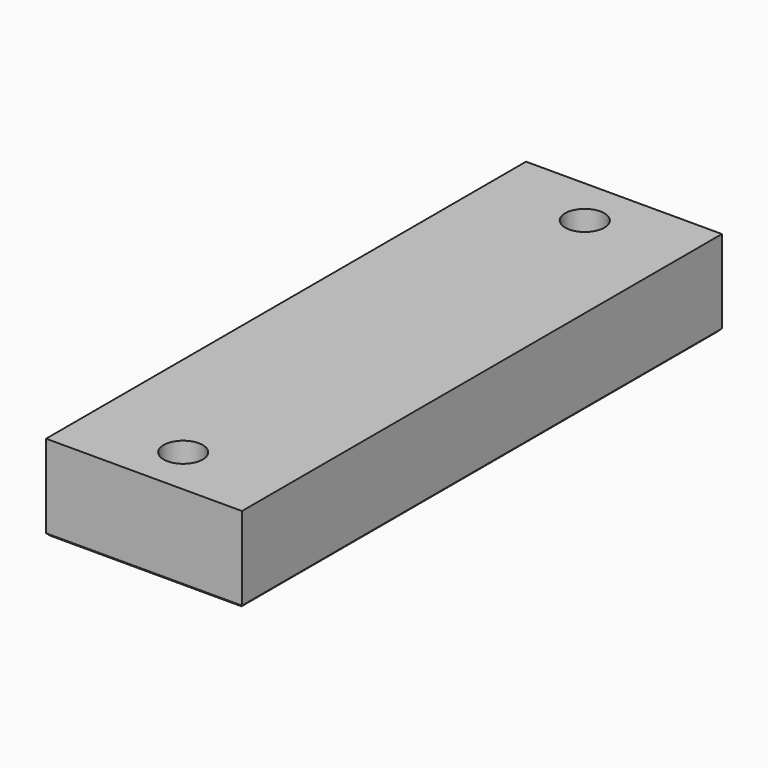
from build123d import *

# Parameters (mm, degrees)
F0_W    = 16
F0_H    = 49
F0_R    = 1.6
F3_SIZE = 0.2


with BuildPart() as f2:
    # F2: sweep along a path in F1
    with BuildLine(Plane.XZ) as f2_path:
        Line((0, 0), (0, 7))
    # F0 (on Top) → F2 (sweep)
    with BuildSketch(Plane.XY):
        Rectangle(F0_W, F0_H)
        with Locations((0, -20.5)):
            Circle(F0_R, mode=Mode.SUBTRACT)
        with Locations((0, 20.5)):
            Circle(F0_R, mode=Mode.SUBTRACT)
    sweep(path=f2_path.line)

    # F3
    f3_edges = [f2.edges().sort_by_distance(p)[0] for p in [
        (8, 0, 0),
        (0, -24.5, 0),
        (0, 24.5, 0),
        (-8, 0, 0),
        (-1.6, -20.5, 0),
        (-1.6, 20.5, 0),
    ]]
    chamfer(f3_edges, length=F3_SIZE)


solid = f2.part
